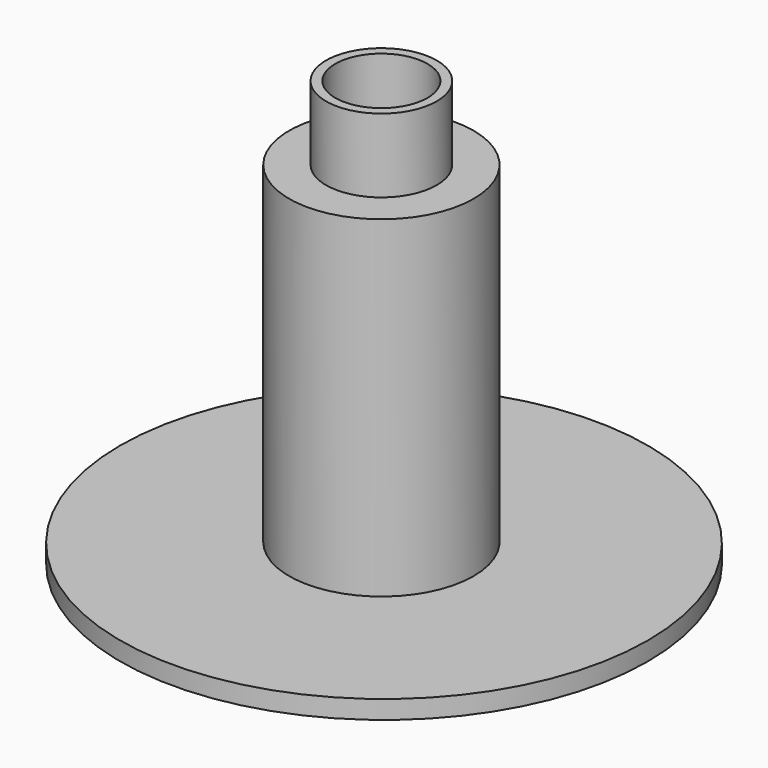
from build123d import *

# Parameters (mm, degrees)
F0_R     = 2.5
F0_R_2   = 1.5
F1_DEPTH = 9
F0_R_3   = 1.25
F2_DEPTH = 11
F0_R_4   = 7.15
F3_DEPTH = 0.5


with BuildPart() as f1:
    # F0 (on Top) → F1 (new body)
    with BuildSketch(Plane.XY):
        Circle(F0_R)
        Circle(F0_R_2, mode=Mode.SUBTRACT)
    extrude(amount=F1_DEPTH)

    # F0 (on Top) → F2 (join)
    with BuildSketch(Plane.XY):
        Circle(F0_R_2)
        Circle(F0_R_3, mode=Mode.SUBTRACT)
    extrude(amount=F2_DEPTH)


with BuildPart() as f3:
    # F0 (on Top) → F3 (new body)
    with BuildSketch(Plane.XY):
        with Locations((0.070876, 0)):
            Circle(F0_R_4)
        Circle(F0_R, mode=Mode.SUBTRACT)
    extrude(amount=-F3_DEPTH)


solid = Compound([f1.part, f3.part])
